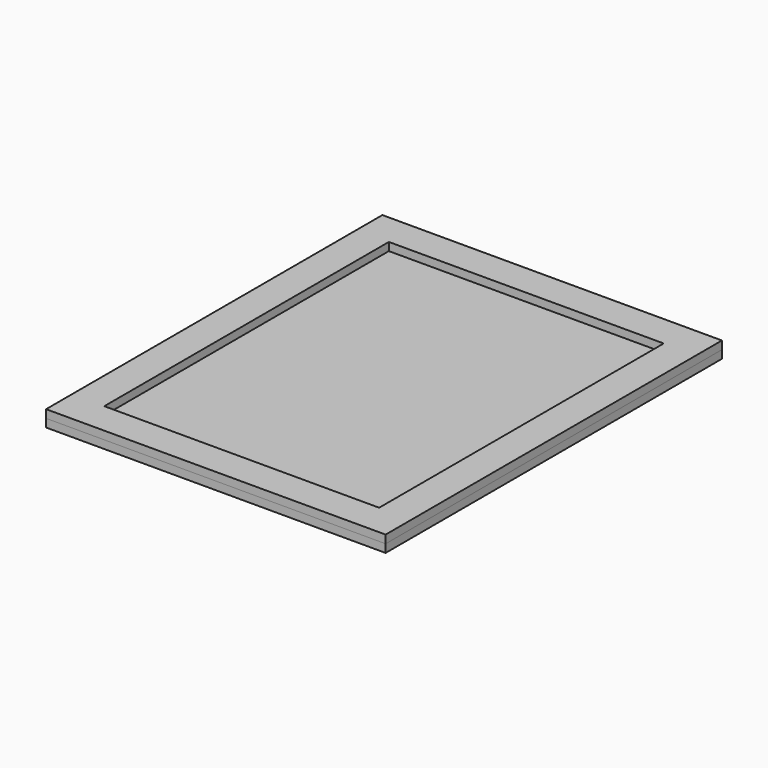
from build123d import *

# Parameters (mm, degrees)
F0_W     = 266.7
F0_H     = 330.2
F0_W_2   = 215.9
F0_H_2   = 279.4
F1_DEPTH = 6.35
F2_DEPTH = 6.35


with BuildPart() as f1:
    # F0 (on Top) → F1 (new body)
    with BuildSketch(Plane.XY):
        with Locations((107.95, 139.7)):
            Rectangle(F0_W, F0_H)
        with Locations((107.95, 139.7)):
            Rectangle(F0_W_2, F0_H_2, mode=Mode.SUBTRACT)
        with Locations((107.95, 139.7)):
            Rectangle(F0_W_2, F0_H_2)
    extrude(amount=-F1_DEPTH)


with BuildPart() as f2:
    # F0 (on Top) → F2 (new body)
    with BuildSketch(Plane.XY):
        with Locations((107.95, 139.7)):
            Rectangle(F0_W, F0_H)
        with Locations((107.95, 139.7)):
            Rectangle(F0_W_2, F0_H_2, mode=Mode.SUBTRACT)
    extrude(amount=F2_DEPTH)


solid = Compound([f1.part, f2.part])
